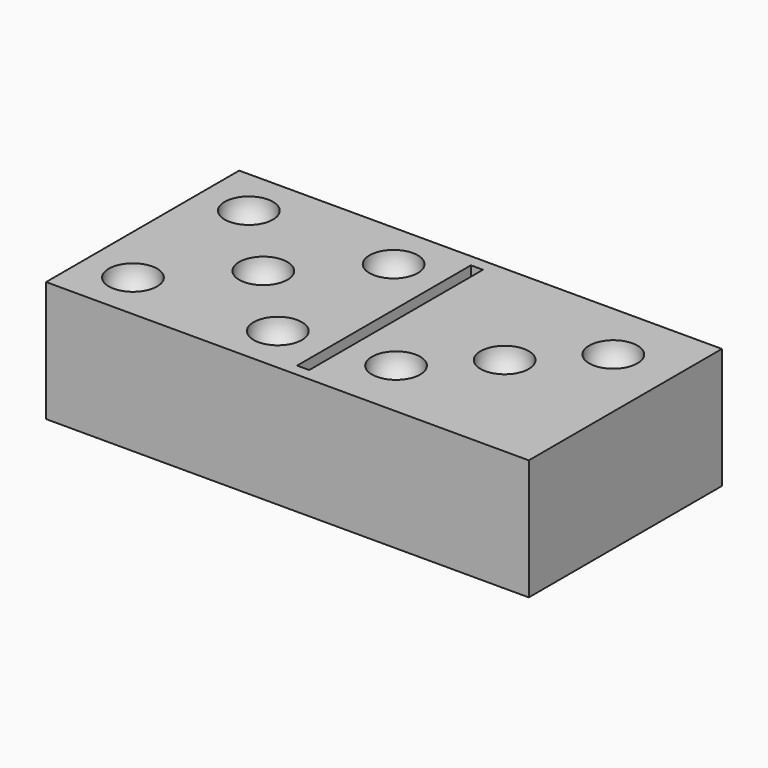
from build123d import *

# Parameters (mm, degrees)
ARRAY001_X_COUNT = 2
ARRAY001_X_PITCH = 12
ARRAY001_Y_COUNT = 2
ARRAY001_Y_PITCH = 12
ARRAY_X_COUNT    = 3
ARRAY_X_PITCH    = 7.071068
BOX001_W         = 1
BOX001_H         = 18
BOX001_DEPTH     = 1
BOX_W            = 40
BOX_H            = 20
BOX_DEPTH        = 10


with BuildPart() as array001:
    # Sphere002 → Sphere002 (revolve)
    with BuildSketch(Plane(origin=(4, 4, 10), x_dir=(1, 0, 0), z_dir=(0, -1, 0))):
        with BuildLine():
            ThreePointArc((0, -2), (2, 0), (0, 2))
            Line((0, 2), (0, -2))
        make_face()
    revolve(axis=Axis((4, 4, 10), (0, 0, 1)))

    # Array001 X: Array001 ×2


with BuildPart() as array001_1:
    add(array001.part)
    with Locations(*[(i * ARRAY001_X_PITCH, 0, 0) for i in range(1, ARRAY001_X_COUNT)]):
        add(array001.part)

    # Array001 Y: Array001 ×2


with BuildPart() as array001_2:
    add(array001_1.part)
    with Locations(*[(0, i * ARRAY001_Y_PITCH, 0) for i in range(1, ARRAY001_Y_COUNT)]):
        add(array001_1.part)


with BuildPart() as numero5:
    # Sphere001 → Sphere001 (revolve)
    with BuildSketch(Plane(origin=(10, 10, 10), x_dir=(1, 0, 0), z_dir=(0, -1, 0))):
        with BuildLine():
            ThreePointArc((0, -2), (2, 0), (0, 2))
            Line((0, 2), (0, -2))
        make_face()
    revolve(axis=Axis((10, 10, 10), (0, 0, 1)))

    # Fusion: union Array001
    add(array001_2.part)


with BuildPart() as numero3:
    # Sphere → Sphere (revolve)
    with BuildSketch(Plane.XZ):
        with BuildLine():
            ThreePointArc((0, -2), (2, 0), (0, 2))
            Line((0, 2), (0, -2))
        make_face()
    revolve(axis=Axis((0, 0, 0), (0, 0, 1)))

    # Array X: numero3 ×3


with BuildPart() as numero3_1:
    add(numero3.part)
    with Locations(*[Vector(0.707107, 0.707107, 0) * (i * ARRAY_X_PITCH) for i in range(1, ARRAY_X_COUNT)]):
        add(numero3.part)


with BuildPart() as numero3_2:
    # Array placement: moved
    add(numero3_1.part.moved(Location((25, 5, 10))))


with BuildPart() as obj1:
    # Box001 → Box001 (new body)
    with BuildSketch(Plane(origin=(20, 1, 9), x_dir=(1, 0, 0), z_dir=(0, 0, 1))):
        with Locations((0.5, 9)):
            Rectangle(BOX001_W, BOX001_H)
    extrude(amount=BOX001_DEPTH)


with BuildPart() as obj2:
    # Box → Box (new body)
    with BuildSketch(Plane.XY):
        with Locations((20, 10)):
            Rectangle(BOX_W, BOX_H)
    extrude(amount=BOX_DEPTH)

    # Cut: cut obj1
    add(obj1.part, mode=Mode.SUBTRACT)

    # Cut001: cut numero3
    add(numero3_2.part, mode=Mode.SUBTRACT)

    # Cut002: cut Numero5
    add(numero5.part, mode=Mode.SUBTRACT)


solid = obj2.part
